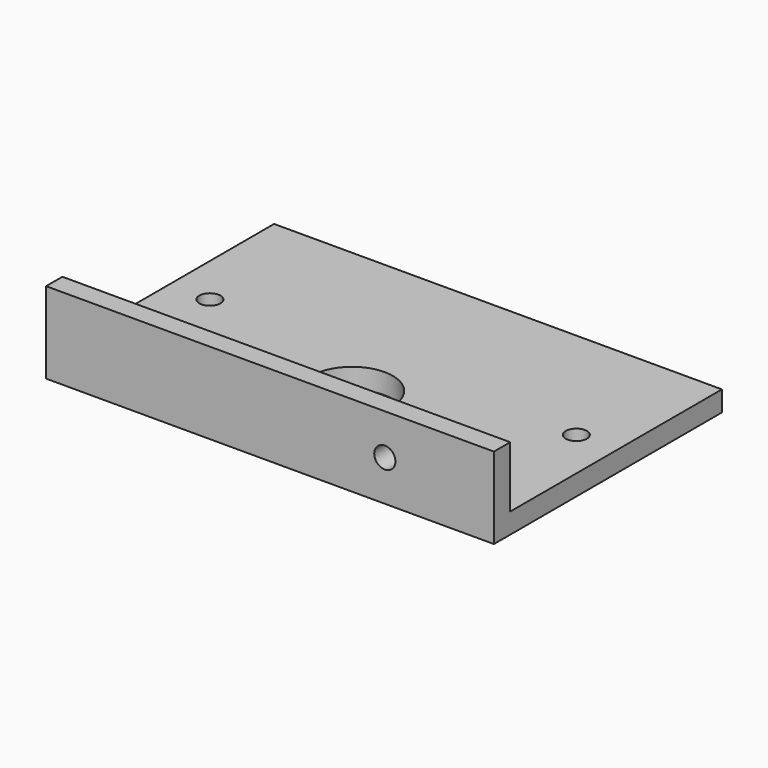
from build123d import *

# Parameters (mm, degrees)
F1_DEPTH = 69.85
F3_D     = 3.302
F5_D     = 3.302
F6_D     = 12.7


with BuildPart() as f1:
    # F0 (on Right) → F1 (new body)
    with BuildSketch(Plane.YZ):
        Polygon((0, 12.7), (0, 0), (44.45, 0), (44.45, 3.175), (3.175, 3.175), (3.175, 12.7), align=None)
    extrude(amount=F1_DEPTH)

    # F3 (through all)
    with Locations(Plane(origin=(0, 0, 0), x_dir=(1, 0, 0), z_dir=(0, 0, -1))):
        with Locations((6.35, -24.003), (63.5, -24.003)):
            Hole(F3_D / 2)

    # F5 (through all)
    with Locations(Plane.XZ):
        with Locations((52.832, 6.35)):
            Hole(F5_D / 2)

    # F6 (through all)
    with Locations(Plane(origin=(0, 0, 0), x_dir=(1, 0, 0), z_dir=(0, 0, -1))):
        with Locations((34.925, -16.002)):
            Hole(F6_D / 2)


solid = f1.part
